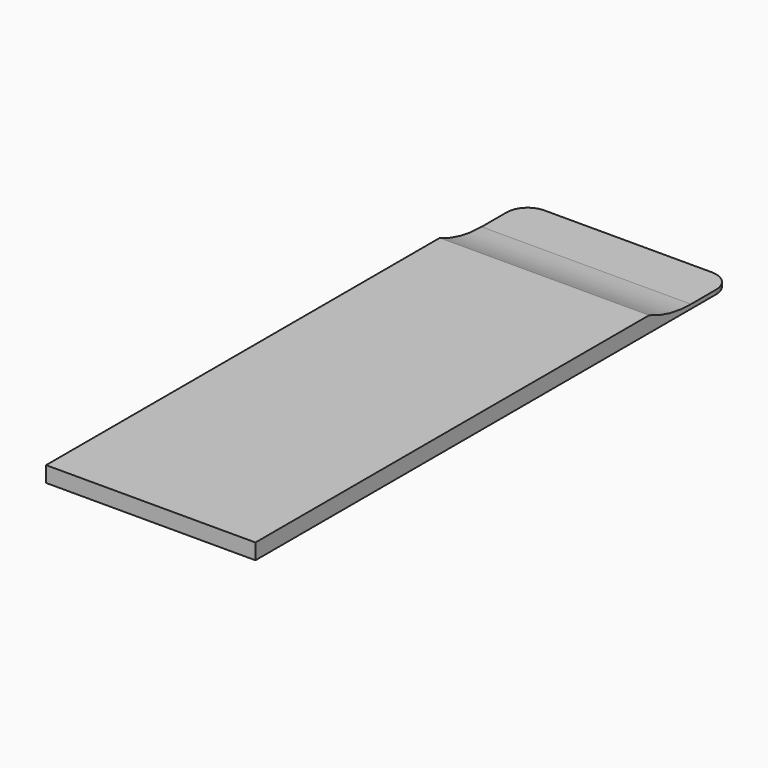
from build123d import *

# Parameters (mm, degrees)
EXTRUDE012_DEPTH = 10
EXTRUDE011_DEPTH = 40


with BuildPart() as extrude012:
    # Sketch006 → Extrude012 (new body)
    with BuildSketch(Plane.XY):
        with BuildLine():
            ThreePointArc((2, 57), (0.585786, 56.414214), (0, 55))
            Line((0, 55), (0, 0))
            Line((0, 0), (20, 0))
            Line((20, 0), (20, 55))
            ThreePointArc((20, 55), (19.414214, 56.414214), (18, 57))
            Line((2, 57), (18, 57))
        make_face()
    extrude(amount=EXTRUDE012_DEPTH)


with BuildPart() as body002:
    # Sketch007 → Extrude011 (new body)
    with BuildSketch(Plane.YZ):
        with BuildLine():
            Line((0, 0), (57, 0))
            Line((57, 0), (57, 0.4))
            Line((57, 0.4), (52, 0.4))
            ThreePointArc((47, 1.5), (49.440215, 0.678249), (52, 0.4))
            Line((47, 1.5), (0, 1.5))
            Line((0, 1.5), (0, 0))
        make_face()
    extrude(amount=EXTRUDE011_DEPTH)

    # Common: intersect Extrude012
    add(extrude012.part, mode=Mode.INTERSECT)


solid = body002.part
